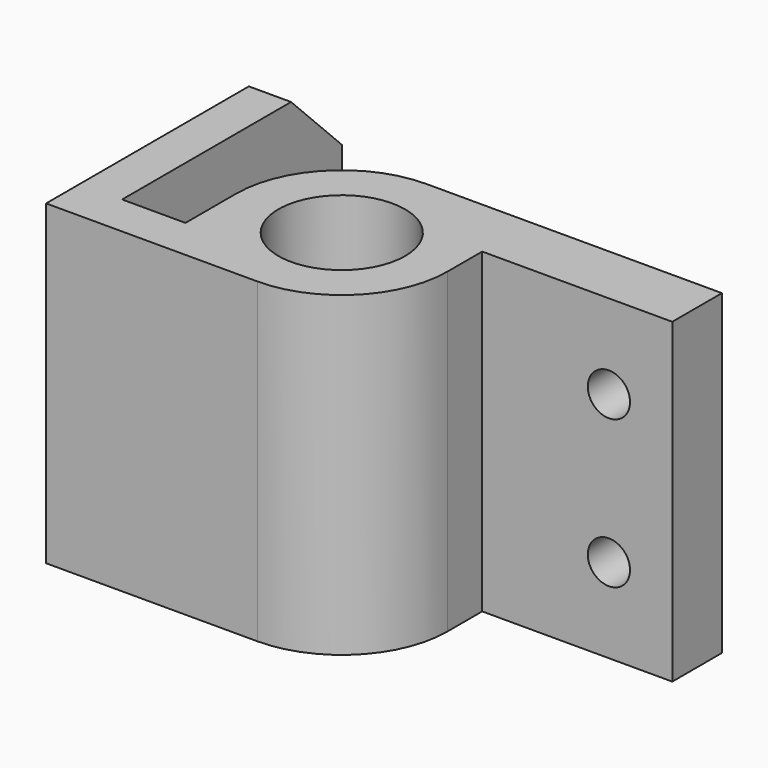
from build123d import *

# Parameters (mm, degrees)
F0_R     = 15
F1_DEPTH = 75
F2_R     = 5
F3_DEPTH = 15
F5_DEPTH = 10
F7_DEPTH = 10


with BuildPart() as f1:
    # F0 (on Top) → F1 (new body)
    with BuildSketch(Plane.XY):
        with BuildLine():
            Line((-50, -25), (0, -25))
            ThreePointArc((0, -25), (17.6776695297, -17.6776695297), (25, 0))
            Line((25, 0), (25, 10.3068929166))
            Line((25, 10.3068929166), (70, 10.3068929166))
            Line((70, 10.3068929166), (70, 25))
            Line((70, 25), (0, 25))
            ThreePointArc((0, 25), (-17.6776695297, 17.6776695297), (-25, 0))
            Line((-25, 0), (-25, -15))
            Line((-25, -15), (-40, -15))
            Line((-40, -15), (-40, 50))
            Line((-40, 50), (-50, 50))
            Line((-50, 50), (-50, -25))
        make_face()
        Circle(F0_R, mode=Mode.SUBTRACT)
    extrude(amount=F1_DEPTH)

    # F2 (on face) → F3 (cut)
    with BuildSketch(Plane(origin=(0, 25, 0), x_dir=(-1, 0, 0), z_dir=(0, 1, 0))):
        with Locations((-55, 20)):
            Circle(F2_R)
        with Locations((-55, 55)):
            Circle(F2_R)
    extrude(amount=-F3_DEPTH, mode=Mode.SUBTRACT)

    # F4 (on face) → F5 (cut)
    with BuildSketch(Plane.YZ.offset(-40)):
        with BuildLine():
            ThreePointArc((25, 40), (22.0710678119, 47.0710678119), (15, 50))
            ThreePointArc((15, 50), (7.9289321881, 32.9289321881), (25, 40))
        make_face()
    extrude(amount=-F5_DEPTH, mode=Mode.SUBTRACT)

    # F6 (on face) → F7 (cut)
    with BuildSketch(Plane.YZ.offset(-40)):
        Polygon((35, 75), (50, 60), (50, 75), align=None)
        Polygon((50, 0), (50, 15), (35, 0), align=None)
    extrude(amount=-F7_DEPTH, mode=Mode.SUBTRACT)


solid = f1.part
